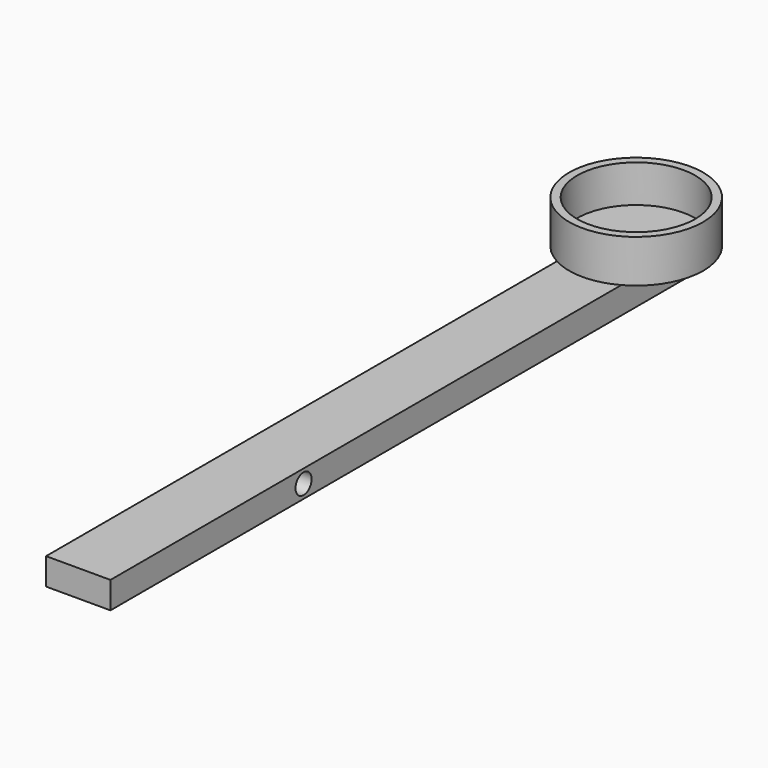
from build123d import *

# Parameters (mm, degrees)
F0_W     = 15.24
F0_H     = 6.35
F1_DEPTH = 177.8
F2_R     = 2.3876
F3_DEPTH = 15.241
F4_R     = 15.875
F5_DEPTH = 10.16
F6_R     = 13.97
F7_DEPTH = 8.89


with BuildPart() as f1:
    # F0 (on Front) → F1 (new body)
    with BuildSketch(Plane.XZ):
        with Locations((1.651002, -2.908992)):
            Rectangle(F0_W, F0_H)
    extrude(amount=F1_DEPTH)

    # F2 (on face) → F3 (cut, through all)
    with BuildSketch(Plane.YZ.offset(9.271002)):
        with Locations((-120.65, -2.908992)):
            Circle(F2_R)
    extrude(amount=-F3_DEPTH, mode=Mode.SUBTRACT)

    # F4 (on face) → F5 (join)
    with BuildSketch(Plane.XY.offset(0.266008)):
        with Locations((1.651002, -12.7)):
            Circle(F4_R)
    extrude(amount=F5_DEPTH)

    # F6 (on face) → F7 (cut)
    with BuildSketch(Plane.XY.offset(10.426008)):
        with Locations((1.651002, -12.7)):
            Circle(F6_R)
    extrude(amount=-F7_DEPTH, mode=Mode.SUBTRACT)


solid = f1.part
